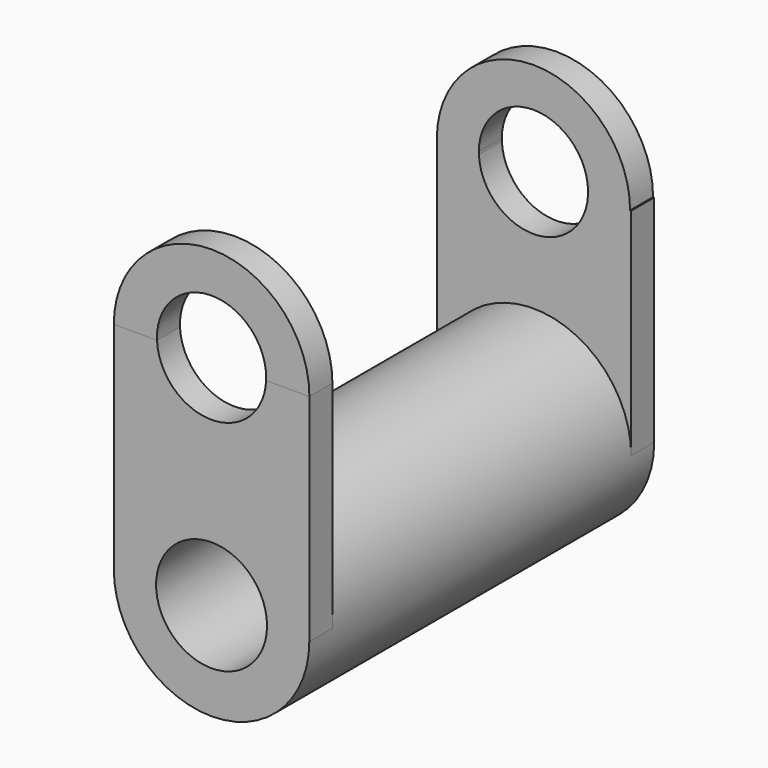
from build123d import *

# Parameters (mm, degrees)
F0_R      = 34.0155305384
F0_R_2    = 19.302709337
F1_DEPTH  = 75
F4_DEPTH  = 10
F6_DEPTH  = 10
F8_DEPTH  = 10
F10_DEPTH = 10
F13_DEPTH = 150
F15_DEPTH = 150


with BuildPart() as f1:
    # F0 (on Front) → F1 (new body)
    with BuildSketch(Plane.XZ):
        Circle(F0_R)
        Circle(F0_R_2, mode=Mode.SUBTRACT)
    extrude(amount=F1_DEPTH)

    # F2: F1 across face


with BuildPart() as f1_1:
    add(f1.part)
    add(f1.part.mirror(Plane(origin=(0, 0, 0), x_dir=(1, 0, 0), z_dir=(0, 1, 0))))

    # F3 (on face) → F4 (join)
    with BuildSketch(Plane.XZ.offset(75)):
        with BuildLine():
            ThreePointArc((-34.0155305384, 0), (0, 34.0155305384), (34.0155305384, 0))
            Line((34.0155305384, 0), (34.0500511229, 0))
            Line((34.0500511229, 0), (34.0500511229, 75))
            Line((34.0500511229, 75), (-34.0155305384, 75))
            Line((-34.0155305384, 75), (-34.0155305384, 0))
        make_face()
    extrude(amount=-F4_DEPTH)


with BuildPart() as f6:
    # F5 (on face) → F6 (new body)
    with BuildSketch(Plane(origin=(0, 75, 0), x_dir=(-1, 0, 0), z_dir=(0, 1, 0))):
        with BuildLine():
            ThreePointArc((-34.0155305384, 0), (-2.5084884013, 33.9229097182), (33.6455516517, 5.0033160864))
            Line((33.6455516517, 5.0033160864), (33.6455516517, 75))
            Line((33.6455516517, 75), (-34.0155305384, 75))
            Line((-34.0155305384, 75), (-34.0155305384, 0))
        make_face()
    extrude(amount=-F6_DEPTH)

    # F9 (on face) → F10 (join)
    with BuildSketch(Plane(origin=(0, 75, 0), x_dir=(-1, 0, 0), z_dir=(0, 1, 0))):
        with BuildLine():
            Line((-33.6247164241, 75), (33.6247164241, 75))
            ThreePointArc((33.6247164241, 75), (0, 108.6247164241), (-33.6247164241, 75))
        make_face()
    extrude(amount=-F10_DEPTH)


with BuildPart() as f8:
    # F7 (on face) → F8 (new body)
    with BuildSketch(Plane.XZ.offset(75)):
        with BuildLine():
            Line((-34.0155305384, 75), (34.0500511229, 75))
            ThreePointArc((34.0500511229, 75), (0.0172602923, 109.0327908307), (-34.0155305384, 75))
        make_face()
    extrude(amount=-F8_DEPTH)


with BuildPart() as f13_tool:
    # F12 (on face) → F13 (new body)
    with BuildSketch(Plane.XZ.offset(75)):
        with BuildLine():
            ThreePointArc((18.9827272831, 75), (18.99568133, 75.4048970909), (19, 75.8099783304))
            ThreePointArc((19, 75.8099783304), (-0.4050812395, 94.8056596604), (-18.9827272831, 75))
            Line((-18.9827272831, 75), (18.9827272831, 75))
        make_face()
        with BuildLine():
            Line((18.9827272831, 75), (-18.9827272831, 75))
            ThreePointArc((-18.9827272831, 75), (0, 56.8099783304), (18.9827272831, 75))
        make_face()
    extrude(amount=-F13_DEPTH)


with BuildPart() as f1_2:
    add(f1_1.part)

    # F13: cut by f13_tool
    add(f13_tool.part, mode=Mode.SUBTRACT)


with BuildPart() as f6_1:
    add(f6.part)

    # F13: cut by f13_tool
    add(f13_tool.part, mode=Mode.SUBTRACT)


with BuildPart() as f15_tool:
    # F14 (on face) → F15 (new body)
    with BuildSketch(Plane.XZ.offset(75)):
        with BuildLine():
            ThreePointArc((18.9797715307, 75), (18.9949422095, 75.4381391222), (19, 75.8765116334))
            ThreePointArc((19, 75.8765116334), (-0.4383725112, 94.8714538429), (-18.9797715307, 75))
            Line((-18.9797715307, 75), (18.9797715307, 75))
        make_face()
    extrude(amount=-F15_DEPTH)


with BuildPart() as f6_2:
    add(f6_1.part)

    # F15: cut by f15_tool
    add(f15_tool.part, mode=Mode.SUBTRACT)


with BuildPart() as f8_1:
    add(f8.part)

    # F15: cut by f15_tool
    add(f15_tool.part, mode=Mode.SUBTRACT)


solid = Compound([f1_2.part, f6_2.part, f8_1.part])
